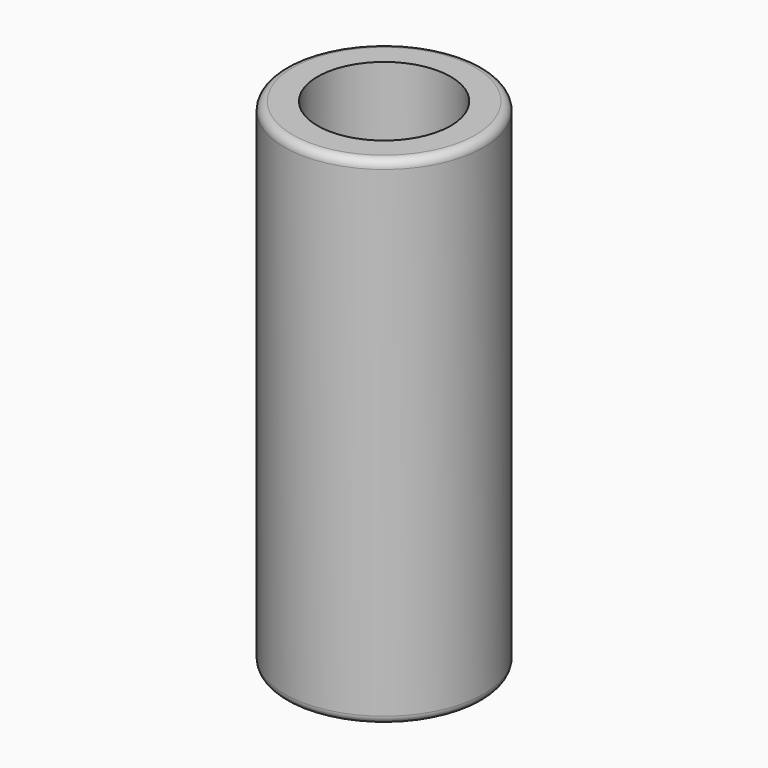
from build123d import *

# Parameters (mm, degrees)
SKETCH_R         = 6
SKETCH_R_2       = 4.01
EXTRUDE001_DEPTH = 30
FILLET_R         = 0.5


with BuildPart() as part:
    # Sketch → Extrude001 (new body)
    with BuildSketch(Plane.XY):
        Circle(SKETCH_R)
        Circle(SKETCH_R_2, mode=Mode.SUBTRACT)
    extrude(amount=EXTRUDE001_DEPTH)

    # Fillet
    fillet_edges = [part.edges().sort_by_distance(p)[0] for p in [
        (-6, 0, 0),
        (-6, 0, 30),
    ]]
    fillet(fillet_edges, radius=FILLET_R)


solid = part.part
